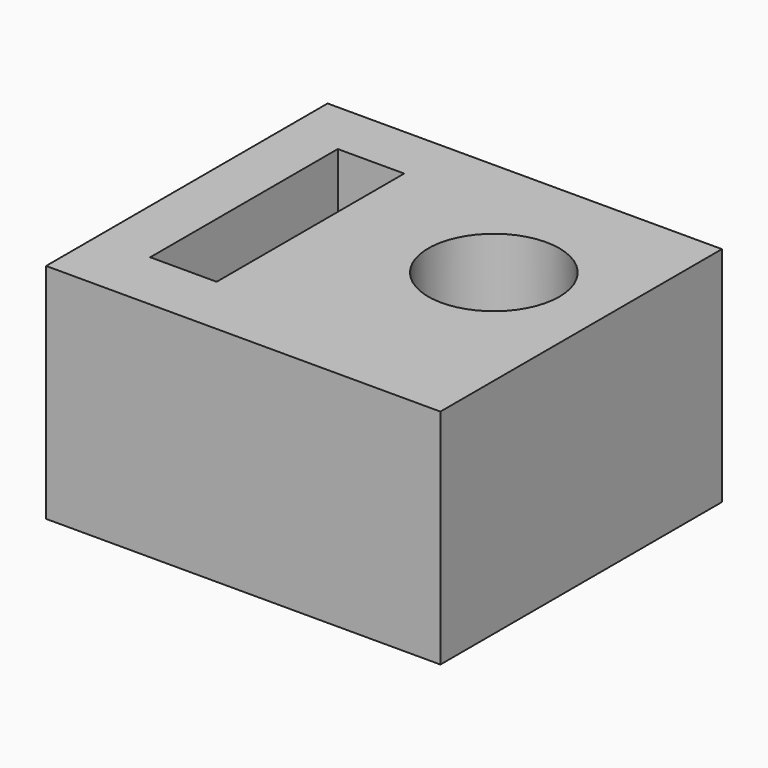
from build123d import *

# Parameters (mm, degrees)
F0_W     = 113.851093
F0_H     = 64.298069
F1_DEPTH = 101.6
F2_W     = 19.176615
F2_H     = 67.682176
F2_R     = 18.917738
F3_DEPTH = 25.4


with BuildPart() as f1:
    # F0 (on Front) → F1 (new body)
    with BuildSketch(Plane.XZ):
        with Locations((3.867556, 7.855967)):
            Rectangle(F0_W, F0_H)
    extrude(amount=F1_DEPTH)

    # F2 (on face) → F3 (cut)
    with BuildSketch(Plane.XY.offset(40.005002)):
        with Locations((-27.777893, -49.784191)):
            Rectangle(F2_W, F2_H)
        with Locations((27.777895, -41.041911)):
            Circle(F2_R)
    extrude(amount=-F3_DEPTH, mode=Mode.SUBTRACT)


solid = f1.part
